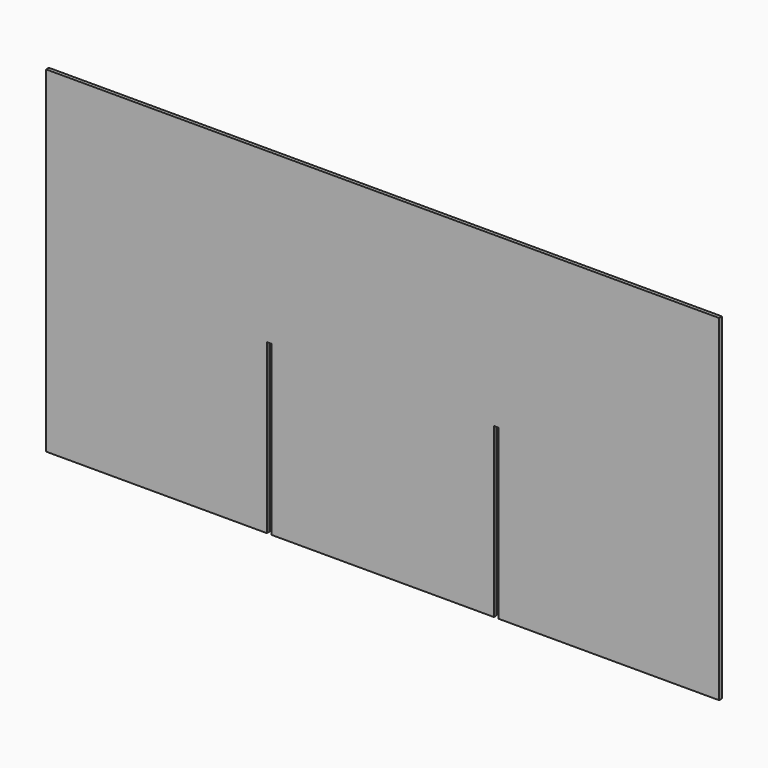
from build123d import *

# Parameters (mm, degrees)
F0_W     = 609.6
F0_H     = 304.8
F1_DEPTH = 1.5875
F2_W     = 3.96875
F2_H     = 3.175
F3_DEPTH = 152.4
F4_W     = 3.96875
F4_H     = 3.175
F5_DEPTH = 152.4


with BuildPart() as f1:
    # F0 (on Front) → F1 (new body, symmetric)
    with BuildSketch(Plane.XZ):
        with Locations((-5.80007, -107.346192)):
            Rectangle(F0_W, F0_H)
    extrude(amount=F1_DEPTH, both=True)

    # F2 (on face) → F3 (cut)
    with BuildSketch(Plane(origin=(0, 0, -259.746192), x_dir=(1, 0, 0), z_dir=(0, 0, -1))):
        with Locations((96.990555, 0)):
            Rectangle(F2_W, F2_H)
    extrude(amount=-F3_DEPTH, mode=Mode.SUBTRACT)

    # F4 (on face) → F5 (cut)
    with BuildSketch(Plane(origin=(0, 0, -259.746192), x_dir=(1, 0, 0), z_dir=(0, 0, -1))):
        with Locations((-108.590695, 0)):
            Rectangle(F4_W, F4_H)
    extrude(amount=-F5_DEPTH, mode=Mode.SUBTRACT)


solid = f1.part
